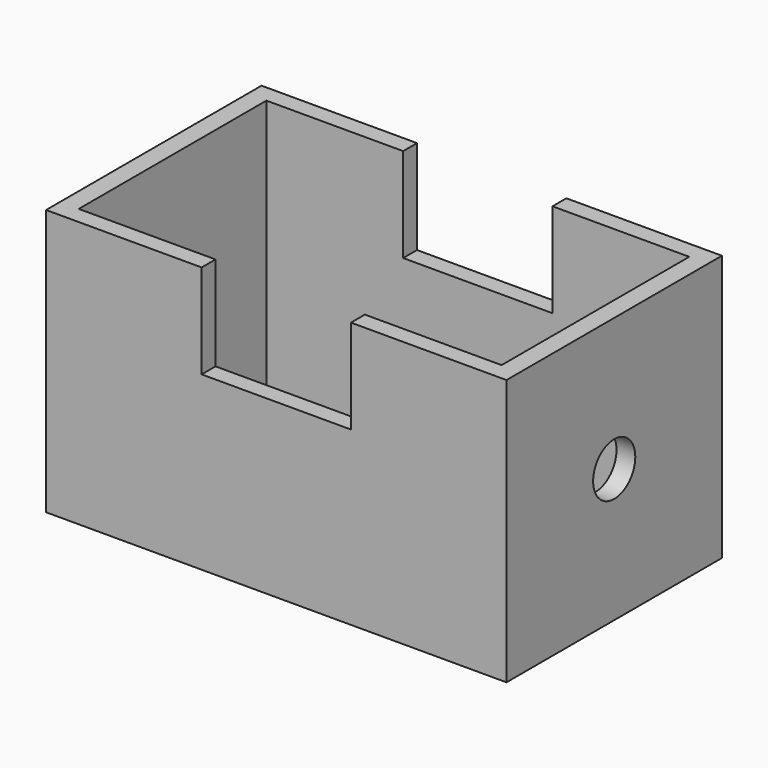
from build123d import *

# Parameters (mm, degrees)
F0_W     = 51.3991490006
F0_H     = 50.7968105376
F0_R     = 5.0314784616
F1_DEPTH = 43.942
F2_W     = 28.5104624927
F2_H     = 18.070012331
F3_DEPTH = 25.908
F4_W     = 80.7127282023
F4_H     = 44.773478061
F5_DEPTH = 84.836


with BuildPart() as f1:
    # F0 (on Right) → F1 (new body, symmetric)
    with BuildSketch(Plane.YZ):
        with Locations((0, 25.3984052688)):
            Rectangle(F0_W, F0_H)
        with Locations((0, 25.3984052688)):
            Circle(F0_R, mode=Mode.SUBTRACT)
    extrude(amount=F1_DEPTH, both=True)

    # F2 (on Front) → F3 (cut, symmetric)
    with BuildSketch(Plane.XZ):
        with Locations((0, 41.862193495)):
            Rectangle(F2_W, F2_H)
    extrude(amount=F3_DEPTH, both=True, mode=Mode.SUBTRACT)

    # F4 (on Top) → F5 (cut)
    with BuildSketch(Plane.XY):
        Rectangle(F4_W, F4_H)
    extrude(amount=F5_DEPTH, mode=Mode.SUBTRACT)


solid = f1.part
